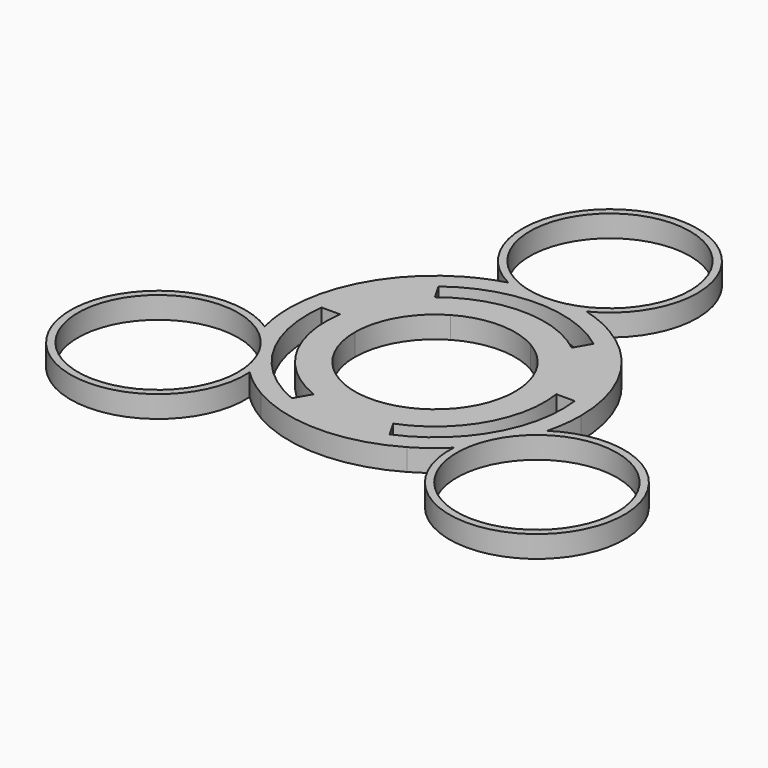
from build123d import *

# Parameters (mm, degrees)
F0_R     = 11
F1_DEPTH = 3


with BuildPart() as f1:
    # F0 (on Top) → F1 (new body)
    with BuildSketch(Plane.XY):
        with BuildLine():
            ThreePointArc((19.368497, -4.986112), (19.841496, -2.512972), (20, 0))
            ThreePointArc((20, 0), (17.320508, 10), (10, 17.320508))
            ThreePointArc((10, 17.320508), (7.744451, 18.439726), (5.366149, 19.266667))
            ThreePointArc((5.366149, 19.266667), (0, 42), (-5.366149, 19.266667))
            ThreePointArc((-5.366149, 19.266667), (-7.744451, 18.439726), (-10, 17.320508))
            ThreePointArc((-10, 17.320508), (-17.320508, 10), (-20, 0))
            ThreePointArc((-20, 0), (-19.841496, -2.512972), (-19.368497, -4.986112))
            ThreePointArc((-19.368497, -4.986112), (-36.373067, -21), (-14.002348, -14.280555))
            ThreePointArc((-14.002348, -14.280555), (-12.097045, -15.926754), (-10, -17.320508))
            ThreePointArc((-10, -17.320508), (0, -20), (10, -17.320508))
            ThreePointArc((10, -17.320508), (12.097045, -15.926754), (14.002348, -14.280555))
            ThreePointArc((14.002348, -14.280555), (36.373067, -21), (19.368497, -4.986112))
        make_face()
        with Locations((-25.980762, -15)):
            Circle(F0_R, mode=Mode.SUBTRACT)
        with BuildLine():
            ThreePointArc((-6.713311, -16.161109), (-15.155445, -8.75), (-17.352587, 2.266657))
            Line((-17.352587, 2.266657), (-14.827753, 2.266657))
            ThreePointArc((-14.827753, 2.266657), (-12.990381, -7.5), (-5.450894, -13.974539))
            Line((-5.450894, -13.974539), (-6.713311, -16.161109))
        make_face(mode=Mode.SUBTRACT)
        with Locations((25.980762, -15)):
            Circle(F0_R, mode=Mode.SUBTRACT)
        with BuildLine():
            ThreePointArc((5.450894, -13.974539), (12.990381, -7.5), (14.827753, 2.266657))
            Line((14.827753, 2.266657), (17.352587, 2.266657))
            ThreePointArc((17.352587, 2.266657), (15.155445, -8.75), (6.713311, -16.161109))
            Line((6.713311, -16.161109), (5.450894, -13.974539))
        make_face(mode=Mode.SUBTRACT)
        with BuildLine():
            ThreePointArc((5.5, 9.526279), (9.526279, 5.5), (11, 0))
            ThreePointArc((11, 0), (9.526279, -5.5), (5.5, -9.526279))
            ThreePointArc((5.5, -9.526279), (0, -11), (-5.5, -9.526279))
            ThreePointArc((-5.5, -9.526279), (-9.526279, -5.5), (-11, 0))
            ThreePointArc((-11, 0), (-9.526279, 5.5), (-5.5, 9.526279))
            ThreePointArc((-5.5, 9.526279), (0, 11), (5.5, 9.526279))
        make_face(mode=Mode.SUBTRACT)
        with BuildLine():
            Line((10.639276, 13.894453), (9.376859, 11.707883))
            ThreePointArc((9.376859, 11.707883), (0, 15), (-9.376859, 11.707883))
            Line((-9.376859, 11.707883), (-10.639276, 13.894453))
            ThreePointArc((-10.639276, 13.894453), (0, 17.5), (10.639276, 13.894453))
        make_face(mode=Mode.SUBTRACT)
        with Locations((0, 30)):
            Circle(F0_R, mode=Mode.SUBTRACT)
    extrude(amount=F1_DEPTH)


solid = f1.part
